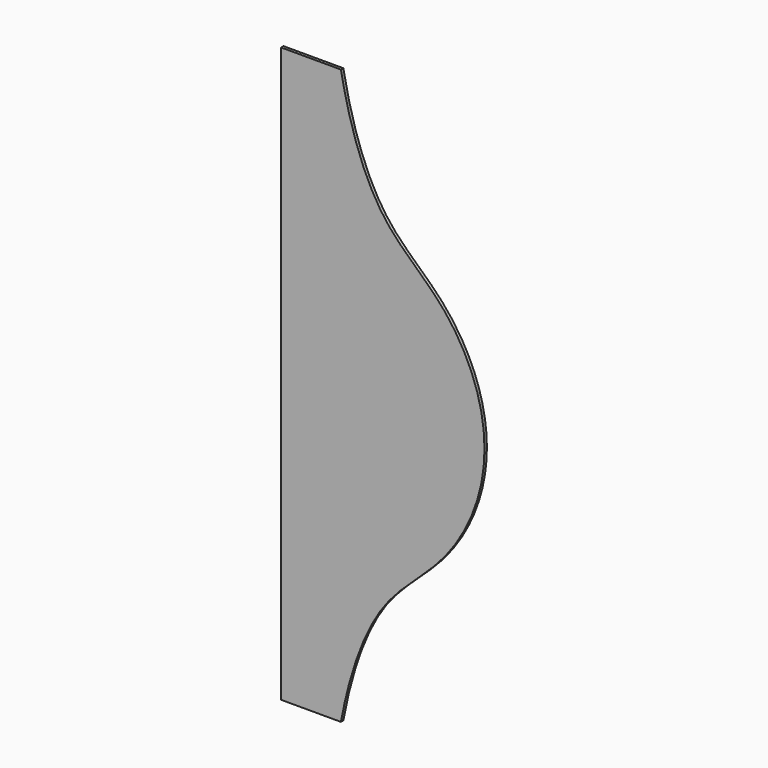
from build123d import *

# Parameters (mm, degrees)
F0_W     = 609.6
F0_H     = 1219.2
F1_DEPTH = 6.35
F2_W     = 177.8
F2_H     = 1219.2
F3_DEPTH = 6.351


with BuildPart() as f1:
    # F0 (on Front) → F1 (new body)
    with BuildSketch(Plane.XZ):
        Rectangle(F0_W, F0_H)
    extrude(amount=F1_DEPTH)

    # F2 (on face) → F3 (cut, through all)
    with BuildSketch(Plane.XZ.offset(6.35)):
        with BuildLine():
            add(Edge.make_bspline(
                [(304.8, 0), (304.8, 92.9325740233), (232.3835883977, 244.8032665536), (73.1047943945, 348.6310422575), (18.2378050836, 511.3671324522), (0, 609.6)],
                knots=[0, 0, 0, 0, 0.3465854329, 0.6415391071, 1, 1, 1, 1], degree=3))
            Line((304.8, 0), (304.8, 609.6))
            Line((304.8, 609.6), (0, 609.6))
        make_face()
        with BuildLine():
            Line((304.8, -609.6), (304.8, 0))
            add(Edge.make_bspline(
                [(304.8, 0), (304.8, -92.9325740233), (232.3835883977, -244.8032665536), (73.1047943945, -348.6310422575), (18.2378050836, -511.3671324522), (0, -609.6)],
                knots=[0, 0, 0, 0, 0.3465854329, 0.6415391071, 1, 1, 1, 1], degree=3))
            Line((0, -609.6), (304.8, -609.6))
        make_face()
        with Locations((-215.9, 0)):
            Rectangle(F2_W, F2_H)
    extrude(amount=-F3_DEPTH, mode=Mode.SUBTRACT)


solid = f1.part
